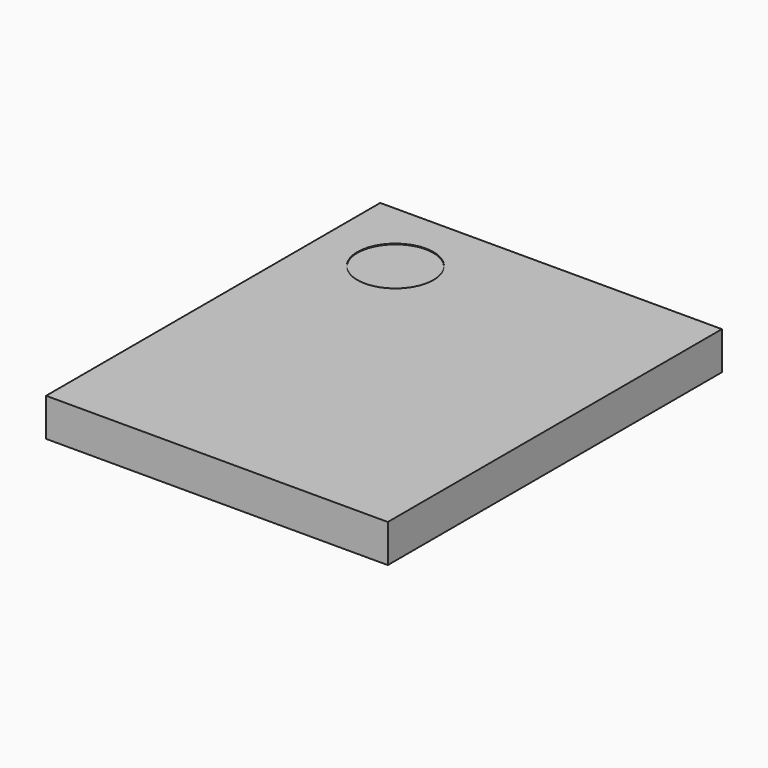
from build123d import *

# Parameters (mm, degrees)
CYLINDER020_R     = 0.5
CYLINDER020_DEPTH = 0.01
BOX059_W          = 4.5
BOX059_H          = 5.5
BOX059_DEPTH      = 0.5


with BuildPart() as cylinder020:
    # Cylinder020 → Cylinder020 (new body)
    with BuildSketch(Plane(origin=(1, 4.5, 0.49), x_dir=(1, 0, 0), z_dir=(0, 0, 1))):
        Circle(CYLINDER020_R)
    extrude(amount=CYLINDER020_DEPTH)


with BuildPart() as obj1:
    # Box059 → Box059 (new body)
    with BuildSketch(Plane.XY):
        with Locations((2.25, 2.75)):
            Rectangle(BOX059_W, BOX059_H)
    extrude(amount=BOX059_DEPTH)

    # Cut010: cut Cylinder020
    add(cylinder020.part, mode=Mode.SUBTRACT)


with BuildPart() as obj1_1:
    # Cut010 placement: moved
    add(obj1.part.moved(Location((-2.38, -2.38, 2.79))))


solid = obj1_1.part
